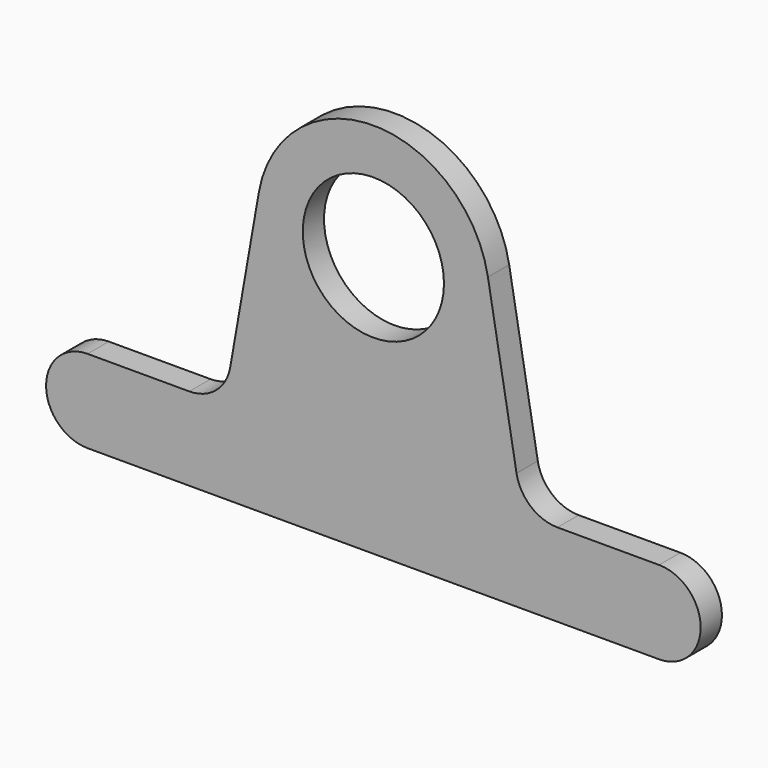
from build123d import *

# Parameters (mm, degrees)
F0_R     = 42.5
F1_DEPTH = 16


with BuildPart() as f1:
    # F0 (on Front) → F1 (new body)
    with BuildSketch(Plane.XZ):
        with BuildLine():
            ThreePointArc((-172, 50), (-197, 25), (-172, 0))
            Line((-172, 0), (172, 0))
            ThreePointArc((172, 0), (197, 25), (172, 50))
            Line((172, 50), (110.800945, 50))
            ThreePointArc((110.800945, 50), (94.719614, 55.858663), (86.17549, 70.688736))
            Line((86.17549, 70.688736), (68.951272, 169.071538))
            ThreePointArc((68.951272, 169.071538), (0, 227), (-68.951272, 169.071538))
            Line((-68.951272, 169.071538), (-86.17549, 70.688736))
            ThreePointArc((-86.17549, 70.688736), (-94.719614, 55.858663), (-110.800945, 50))
            Line((-110.800945, 50), (-172, 50))
        make_face()
        with Locations((0, 157)):
            Circle(F0_R, mode=Mode.SUBTRACT)
    extrude(amount=F1_DEPTH)


solid = f1.part
